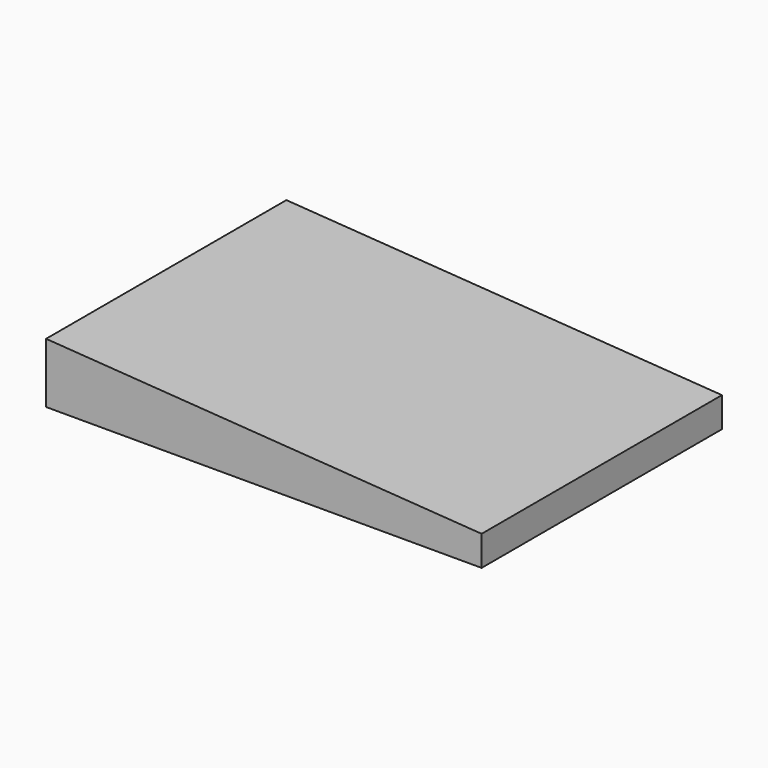
from build123d import *

# Parameters (mm, degrees)
F0_W     = 14.5
F0_H     = 10
F1_DEPTH = 2
F3_DEPTH = 10.001


with BuildPart() as f1:
    # F0 (on Top) → F1 (new body)
    with BuildSketch(Plane.XY):
        Rectangle(F0_W, F0_H)
    extrude(amount=F1_DEPTH)

    # F2 (on face) → F3 (cut, through all)
    with BuildSketch(Plane.XZ.offset(5)):
        Polygon((7.25, 2), (-7.25, 2), (7.25, 1), align=None)
    extrude(amount=-F3_DEPTH, mode=Mode.SUBTRACT)


solid = f1.part
